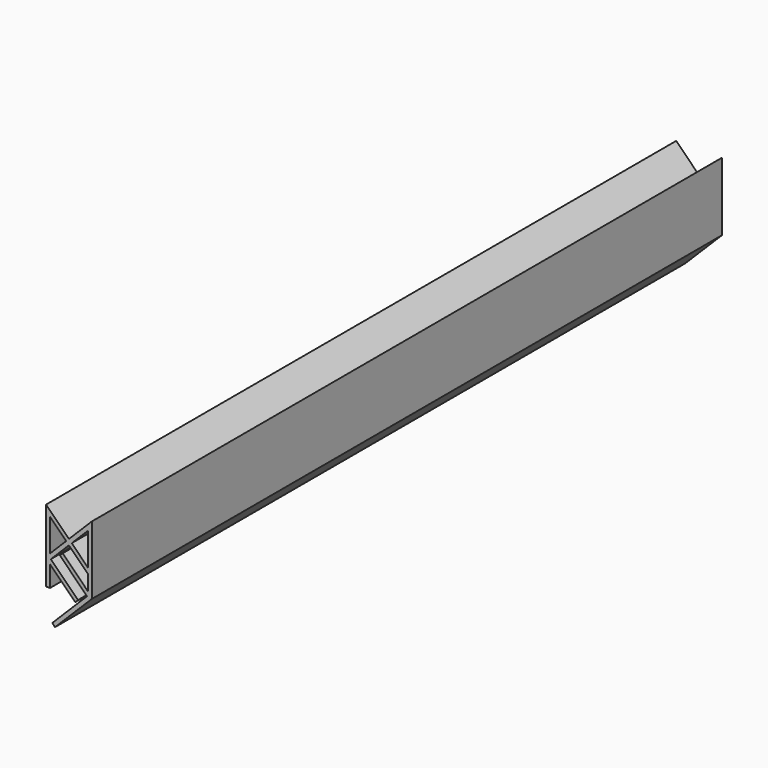
from build123d import *

# Parameters (mm, degrees)
F1_DEPTH = 25.4


with BuildPart() as f1:
    # F0 (on Front) → F1 (new body)
    with BuildSketch(Plane.XZ):
        Polygon((1.410538, -2.04686), (1.410538, 0.153303), (0.673519, -0.583717), (-0.0635, 0.153303), (-0.0635, -2.17386), (0.0635, -2.17386), (0.0635, -1.500341), (0.875575, -2.312416), (0.965378, -2.222613), (0.089803, -1.347038), (0.673519, -0.763322), (1.283538, -1.373341), (1.283538, -1.867255), (0.471463, -1.05518), (0.381661, -1.144983), (1.257236, -2.020558), (0.134704, -3.14309), (0.224506, -3.232892), align=None)
        Polygon((0.0635, -1.193736), (0.0635, -0.153303), (0.583717, -0.673519), align=None, mode=Mode.SUBTRACT)
        Polygon((0.763322, -0.673519), (1.283538, -0.153303), (1.283538, -1.193736), align=None, mode=Mode.SUBTRACT)
    extrude(amount=F1_DEPTH)


solid = f1.part
